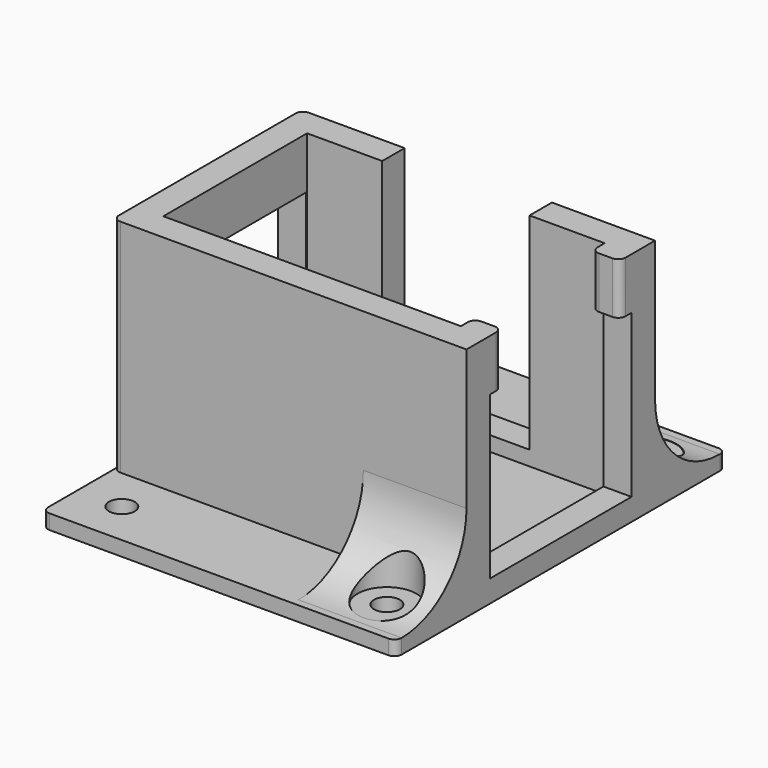
from build123d import *

# Parameters (mm, degrees)
SKETCH107_W         = 48
SKETCH107_H         = 56
PAD026_DEPTH        = 2
SKETCH108_R         = 1.75
HOLE046_DEPTH       = 25
SKETCH109_W         = 48
SKETCH109_H         = 32
PAD027_DEPTH        = 30
SKETCH110_W         = 40.4
SKETCH110_H         = 24.4
POCKET033_DEPTH     = 30
SKETCH111_W         = 20
SKETCH111_H         = 20
SKETCH111_W_2       = 40
POCKET034_DEPTH     = 28
SKETCH112_W         = 24
SKETCH112_H         = 22
POCKET035_DEPTH     = 50
SKETCH113_R         = 1.75
HOLE047_DEPTH       = 25
HOLE048_D           = 3.5
HOLE048_DEPTH       = 25
HOLE048_CSINK_D     = 8
HOLE048_CSINK_ANGLE = 90
HOLE048_TIPS_R      = 1.75
FILLET037_R         = 1
PAD_DEPTH           = 14
SKETCH115_R         = 4
HOLE_DEPTH          = 25
HOLE_TIPS_R         = 4
FILLET_R            = 1
FILLET038_R         = 1
FILLET039_R         = 1


with BuildPart() as part:
    # Sketch107 → Pad026 (new body)
    with BuildSketch(Plane.XY):
        Rectangle(SKETCH107_W, SKETCH107_H)
    extrude(amount=PAD026_DEPTH)

    # Sketch108 (on Face6 of Pad026) → Hole046 (cut)
    with BuildSketch(Plane.XY.offset(2)):
        with Locations((18, 22)):
            Circle(SKETCH108_R)
        with Locations((18, -22)):
            Circle(SKETCH108_R)
    hole046 = extrude(amount=-HOLE046_DEPTH, mode=Mode.SUBTRACT)

    # Mirrored041: Hole046 across Sketch108 V_Axis
    add(hole046.mirror(Plane(origin=(0, 0, 2), x_dir=(0, 0, 1), z_dir=(1, 0, 0))), mode=Mode.SUBTRACT)

    # Sketch109 (on Face5 of Mirrored041) → Pad027 (join)
    with BuildSketch(Plane.XY.offset(2)):
        Rectangle(SKETCH109_W, SKETCH109_H)
    extrude(amount=PAD027_DEPTH)

    # Sketch110 (on Face12 of Pad027) → Pocket033 (cut)
    with BuildSketch(Plane.XY.offset(32)):
        Rectangle(SKETCH110_W, SKETCH110_H)
    extrude(amount=-POCKET033_DEPTH, mode=Mode.SUBTRACT)

    # Sketch111 (on Face8 of Pocket033) → Pocket034 (cut)
    with BuildSketch(Plane.XY.offset(32)):
        with Locations((0, 10)):
            Rectangle(SKETCH111_W, SKETCH111_H)
        with Locations((20, 0)):
            Rectangle(SKETCH111_W_2, SKETCH111_H)
    extrude(amount=-POCKET034_DEPTH, mode=Mode.SUBTRACT)

    # Sketch112 (on Face3 of Pocket034) → Pocket035 (cut)
    with BuildSketch(Plane(origin=(-24, 0, 0), x_dir=(0, -1, 0), z_dir=(-1, 0, 0))):
        with Locations((0, 14)):
            Rectangle(SKETCH112_W, SKETCH112_H)
    extrude(amount=-POCKET035_DEPTH, mode=Mode.SUBTRACT)

    # Sketch113 (on Face34 of Pocket035) → Hole047 (cut)
    with BuildSketch(Plane.XY.offset(2)):
        with Locations((-16.2, 8.2)):
            Circle(SKETCH113_R)
        with Locations((-16.2, -8.2)):
            Circle(SKETCH113_R)
    extrude(amount=-HOLE047_DEPTH, mode=Mode.SUBTRACT)

    # Hole048
    with Locations(Plane(origin=(0, 0, 0), x_dir=(1, 0, 0), z_dir=(0, 0, -1))):
        with Locations((-16.2, -8.2), (-16.2, 8.2)):
            CounterSinkHole(HOLE048_D / 2, HOLE048_CSINK_D / 2, depth=HOLE048_DEPTH, counter_sink_angle=HOLE048_CSINK_ANGLE)

    # Hole048 tips → Hole048 tip 1 section 0
    with BuildSketch(Plane(origin=(0, 0, 25), x_dir=(1, 0, 0), z_dir=(0, 0, -1)), mode=Mode.PRIVATE) as hole048_tip_1_s0:
        with Locations((-16.2, -8.2)):
            Circle(HOLE048_TIPS_R)
    loft([hole048_tip_1_s0.sketch, Vertex(-16.2, 8.2, 26.051506)], mode=Mode.SUBTRACT)

    # Hole048 tips → Hole048 tip 2 section 0
    with BuildSketch(Plane(origin=(0, 0, 25), x_dir=(1, 0, 0), z_dir=(0, 0, -1)), mode=Mode.PRIVATE) as hole048_tip_2_s0:
        with Locations((-16.2, 8.2)):
            Circle(HOLE048_TIPS_R)
    loft([hole048_tip_2_s0.sketch, Vertex(-16.2, -8.2, 26.051506)], mode=Mode.SUBTRACT)

    # Fillet037
    fillet037_edges = [part.edges().sort_by_distance(p)[0] for p in [
        (24, -28, 1),
        (24, 28, 1),
        (-24, -28, 1),
        (-24, 28, 1),
    ]]
    fillet(fillet037_edges, radius=FILLET037_R)

    # Sketch (on Face10 of Fillet037) → Pad (join)
    with BuildSketch(Plane.YZ.offset(24)):
        with BuildLine():
            ThreePointArc((16, 12.999996), (19.221827, 5.221824), (27, 2))
            Line((16, 2), (27, 2))
            Line((16, 12.999996), (16, 2))
        make_face()
    pad = extrude(amount=-PAD_DEPTH)

    # Mirrored: Pad across Sketch V_Axis
    add(pad.mirror(Plane(origin=(24, 0, 0), x_dir=(1, 0, 0), z_dir=(0, 1, 0))))

    # Sketch115 (on Face5 of Pad) → Hole (cut)
    with BuildSketch(Plane.XY.offset(2)):
        with Locations((18, 22)):
            Circle(SKETCH115_R)
        with Locations((18, -22)):
            Circle(SKETCH115_R)
    extrude(amount=HOLE_DEPTH, mode=Mode.SUBTRACT)

    # Hole tips → Hole tip 1 section 0
    with BuildSketch(Plane.XY.offset(27), mode=Mode.PRIVATE) as hole_tip_1_s0:
        with Locations((18, 22)):
            Circle(HOLE_TIPS_R)
    loft([hole_tip_1_s0.sketch, Vertex(18, 22, 29.403442)], mode=Mode.SUBTRACT)

    # Hole tips → Hole tip 2 section 0
    with BuildSketch(Plane.XY.offset(27), mode=Mode.PRIVATE) as hole_tip_2_s0:
        with Locations((18, -22)):
            Circle(HOLE_TIPS_R)
    loft([hole_tip_2_s0.sketch, Vertex(18, -22, 29.403442)], mode=Mode.SUBTRACT)

    # Fillet
    fillet_edges = [part.edges().sort_by_distance(p)[0] for p in [
        (-24, -16, 17),
        (-24, 16, 17),
    ]]
    fillet(fillet_edges, radius=FILLET_R)

    # Fillet038
    fillet038_edges = [part.edges().sort_by_distance(p)[0] for p in [
        (20.2, 10, 28.5),
        (20.2, -10, 28.5),
    ]]
    fillet(fillet038_edges, radius=FILLET038_R)

    # Fillet039
    fillet039_edges = [part.edges().sort_by_distance(p)[0] for p in [
        (24, 10, 28.5),
        (24, -10, 28.5),
    ]]
    fillet(fillet039_edges, radius=FILLET039_R)


solid = part.part
